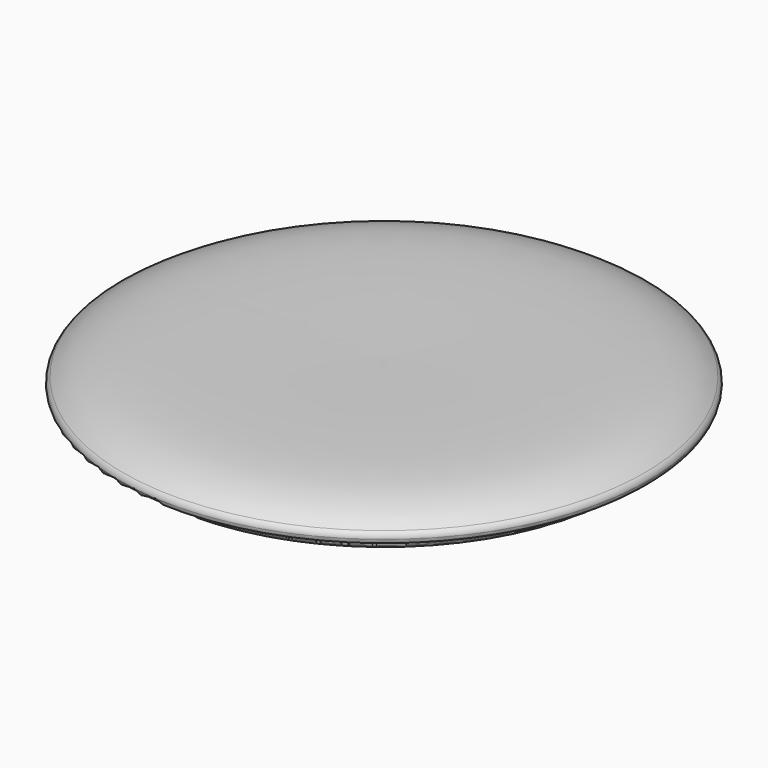
from build123d import *


with BuildPart() as f1:
    # F0 (on Front) → F1 (revolve)
    with BuildSketch(Plane.XZ):
        with BuildLine():
            ThreePointArc((-106.4435457509, 4.7624999991), (-103.0236377009, 3.3963709202), (-101.6, 0))
            ThreePointArc((-101.6, 0), (-100.409375, -1.1906250009), (-99.21875, 0))
            Line((-99.21875, 0), (-99.21875, 9.5948500034))
            ThreePointArc((-99.21875, 9.5948500034), (-99.1739450855, 9.77803412), (-99.0496467783, 9.9198573612))
            add(Edge.make_bspline(
                [(-99.0496467783, 9.9198573612), (-98.4306707978, 10.1693272591), (-96.9318978129, 10.4802488583), (-93.4045938716, 11.4587916048), (-81.0717543692, 12.678250613), (-78.7665918469, 12.4640073627), (-77.9773741961, 12.4848420579)],
                knots=[0, 0, 0, 0, 0.1630131382, 0.3904825, 0.7977924813, 1, 1, 1, 1], degree=3))
            Line((-77.9773741961, 12.4848420579), (-59.8382912576, 12.4848420579))
            Line((-59.8382912576, 12.4848420579), (0, 12.4391220579))
            Line((0, 12.4391220579), (0, 17.4848320579))
            add(Edge.make_bspline(
                [(-109.8705988212, 9.6720496985), (-108.6907999973, 10.3705496985), (-106.4747931139, 12.2421871479), (-97.4689543827, 15.8754413037), (-78.5068024724, 18.5790395137), (-32.0904092123, 17.9375946442), (0, 17.4848320579)],
                knots=[0, 0, 0, 0, 0.1116739059, 0.272760902, 0.5040599161, 1, 1, 1, 1], degree=3))
            ThreePointArc((-109.8705988212, 9.6720496985), (-110.8453081373, 8.5790121085), (-111.1933117024, 7.1564500034))
            ThreePointArc((-111.1933117024, 7.1564500034), (-110.4921241564, 5.4763875494), (-108.8120617024, 4.7752000034))
            Line((-108.8120617024, 4.7752000034), (-106.4435457509, 4.7624999991))
        make_face()
    revolve(axis=Axis((0, 0, 14.9619770579), (0, 0, -1)))


solid = f1.part
